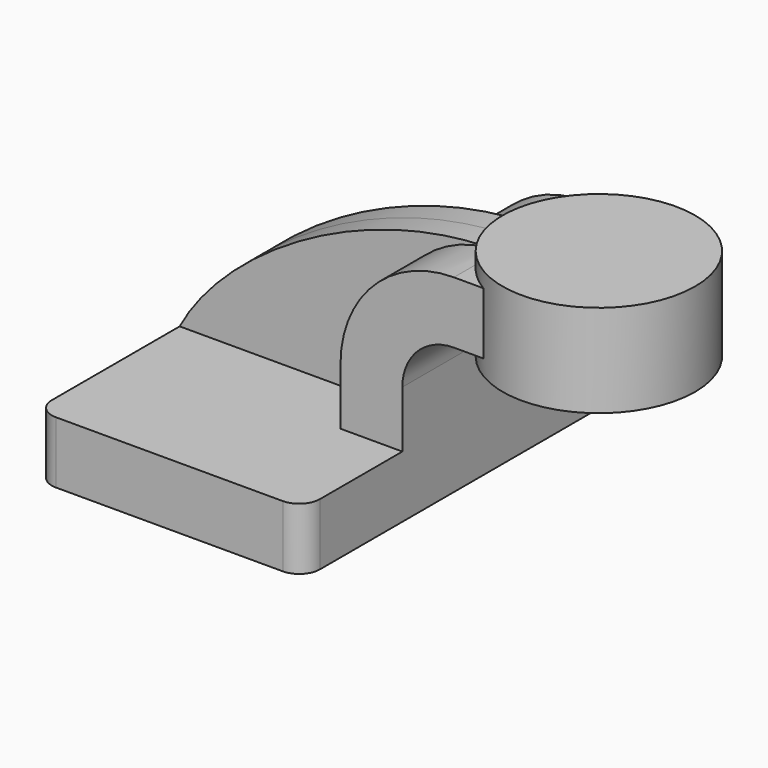
from build123d import *

# Parameters (mm, degrees)
F1_W     = 82.55
F1_H     = 19.05
F2_DEPTH = 63.5
F0_W     = 21.1554604056
F0_H     = 19.05
F3_DEPTH = 25.4
F4_DEPTH = 7.9375
F6_R     = 6.35
F7_R     = 6.35


with BuildPart() as f2:
    # F1 (on Front) → F2 (new body, symmetric)
    with BuildSketch(Plane.XZ):
        Rectangle(F1_W, F1_H)
    extrude(amount=F2_DEPTH, both=True)

    # F0 (on Front) → F3 (join, symmetric)
    with BuildSketch(Plane.XZ):
        with BuildLine():
            Line((22.225, 9.525), (41.275, 9.525))
            Line((41.275, 9.525), (41.275, 27.0002))
            ThreePointArc((41.275, 27.0002), (45.9246798487, 38.2255201513), (57.15, 42.8752))
            Line((57.15, 42.8752), (60.325, 42.8752))
            Line((60.325, 42.8752), (60.325, 61.9252))
            Line((60.325, 61.9252), (57.15, 61.9252))
            ThreePointArc((57.15, 61.9252), (32.4542956671, 51.6959043329), (22.225, 27.0002))
            Line((22.225, 27.0002), (22.225, 9.525))
        make_face()
        with Locations((70.9027302028, 52.4002)):
            Rectangle(F0_W, F0_H)
    extrude(amount=F3_DEPTH, both=True)

    # F0 (on Front) → F4 (join, symmetric)
    with BuildSketch(Plane.XZ):
        with BuildLine():
            add(Edge.make_bspline(
                [(-41.275, 9.525), (-27.3804180324, 35.7423387468), (15.3577309102, 62.309294939), (57.15, 61.9252)],
                knots=[0, 0, 0, 0, 111.5045361635, 111.5045361635, 111.5045361635, 111.5045361635], degree=3))
            Line((-41.275, 9.525), (22.225, 9.525))
            Line((22.225, 9.525), (22.225, 27.0002))
            ThreePointArc((22.225, 27.0002), (32.4542956671, 51.6959043329), (57.15, 61.9252))
        make_face()
    extrude(amount=F4_DEPTH, both=True)

    # F0 (on Front) → F5 (revolve)
    with BuildSketch(Plane.XZ):
        Polygon((81.4804604056, 66.675), (81.4804604056, 61.9252), (81.4804604056, 42.8752), (81.4804604056, 38.1), (111.125, 38.1), (111.125, 66.675), align=None)
    revolve(axis=Axis((81.4804604056, 0, 52.3875), (0, 0, 1)))

    # F6
    f6_edges = [f2.edges().sort_by_distance(p)[0] for p in [
        (41.275, -63.5, 0),
        (-41.275, -63.5, 0),
        (41.275, 63.5, 0),
    ]]
    fillet(f6_edges, radius=F6_R)

    # F7
    f7_edges = [f2.edges().sort_by_distance(p)[0] for p in [
        (-41.275, 63.5, 0),
    ]]
    fillet(f7_edges, radius=F7_R)


solid = f2.part
